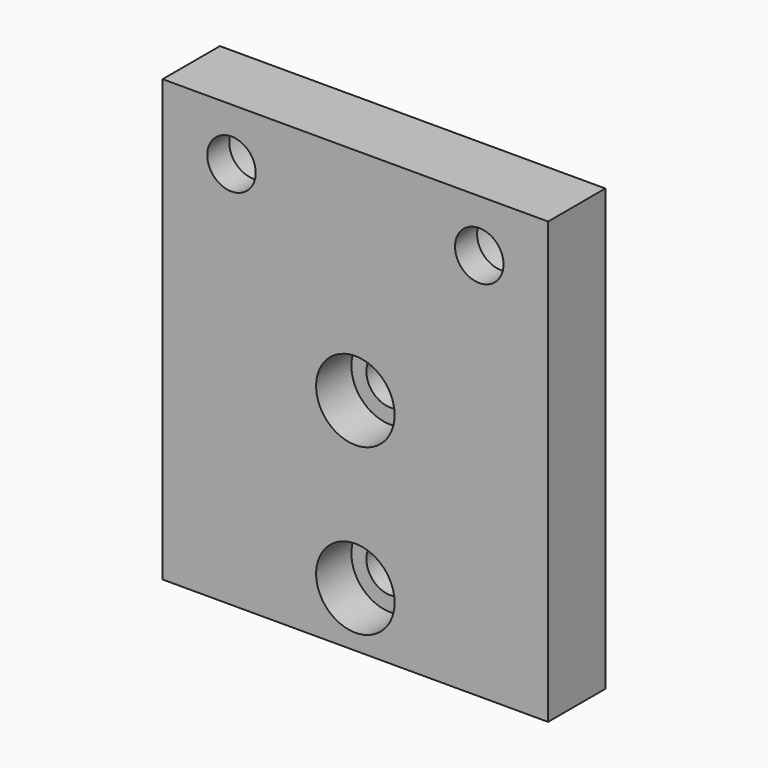
from build123d import *

# Parameters (mm, degrees)
F0_W           = 70
F0_H           = 80
F1_DEPTH       = 13
F4_D           = 8.8
F4_DEPTH       = 22.75
F4_CBORE_D     = 14.25
F4_CBORE_DEPTH = 8
F4_TIP         = 2.6437867237
F5_D           = 8.8
F5_DEPTH       = 22.75
F5_CBORE_D     = 14.25
F5_CBORE_DEPTH = 8
F5_TIP         = 2.6437867237


with BuildPart() as f1:
    # F0 (on Front) → F1 (new body)
    with BuildSketch(Plane.XZ):
        Rectangle(F0_W, F0_H)
    extrude(amount=F1_DEPTH)

    # F4
    with Locations(Plane(origin=(0, 0, 0), x_dir=(-1, 0, 0), z_dir=(0, 1, 0))):
        with Locations((-22.5, 30.5), (22.5, 30.5)):
            CounterBoreHole(F4_D / 2, F4_CBORE_D / 2, F4_CBORE_DEPTH, depth=F4_DEPTH)
            with Locations((0, 0, -(F4_DEPTH + F4_TIP / 2))):  # 118° drill point
                Cone(0, F4_D / 2, F4_TIP, mode=Mode.SUBTRACT)

    # F5
    with Locations(Plane.XZ.offset(13)):
        with Locations((0, 0), (0, -30)):
            CounterBoreHole(F5_D / 2, F5_CBORE_D / 2, F5_CBORE_DEPTH, depth=F5_DEPTH)
            with Locations((0, 0, -(F5_DEPTH + F5_TIP / 2))):  # 118° drill point
                Cone(0, F5_D / 2, F5_TIP, mode=Mode.SUBTRACT)


solid = f1.part
